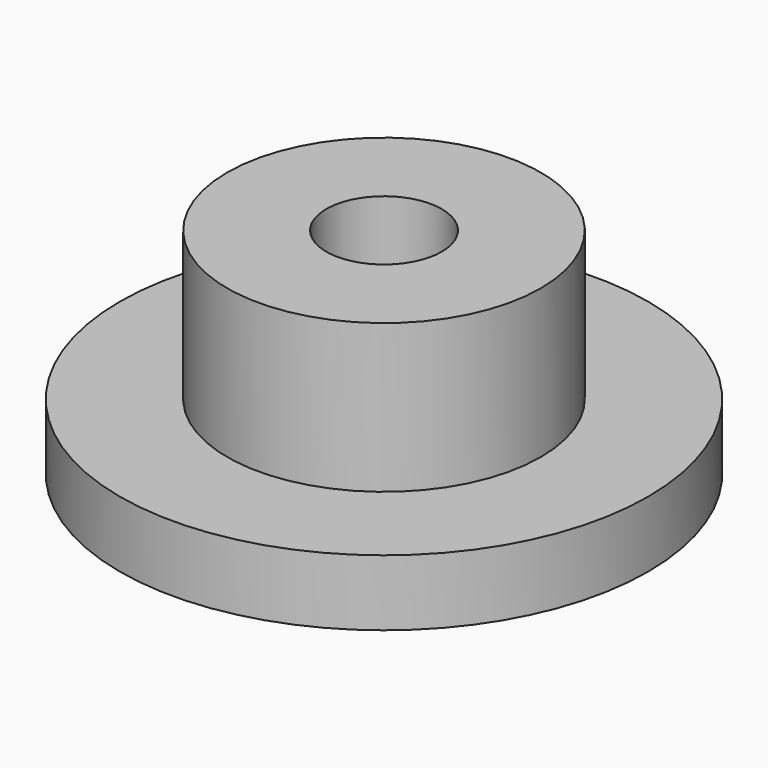
from build123d import *

# Parameters (mm, degrees)
F0_R     = 8
F0_R_2   = 1.75
F1_DEPTH = 2
F2_R     = 4.75
F2_R_2   = 1.75
F3_DEPTH = 4.5


with BuildPart() as f1:
    # F0 (on Top) → F1 (new body)
    with BuildSketch(Plane.XY):
        Circle(F0_R)
        Circle(F0_R_2, mode=Mode.SUBTRACT)
        Circle(F0_R)
        Circle(F0_R_2, mode=Mode.SUBTRACT)
    extrude(amount=F1_DEPTH)

    # F2 (on face) → F3 (join)
    with BuildSketch(Plane.XY.offset(2)):
        Circle(F2_R)
        Circle(F2_R_2, mode=Mode.SUBTRACT)
    extrude(amount=F3_DEPTH)


solid = f1.part
